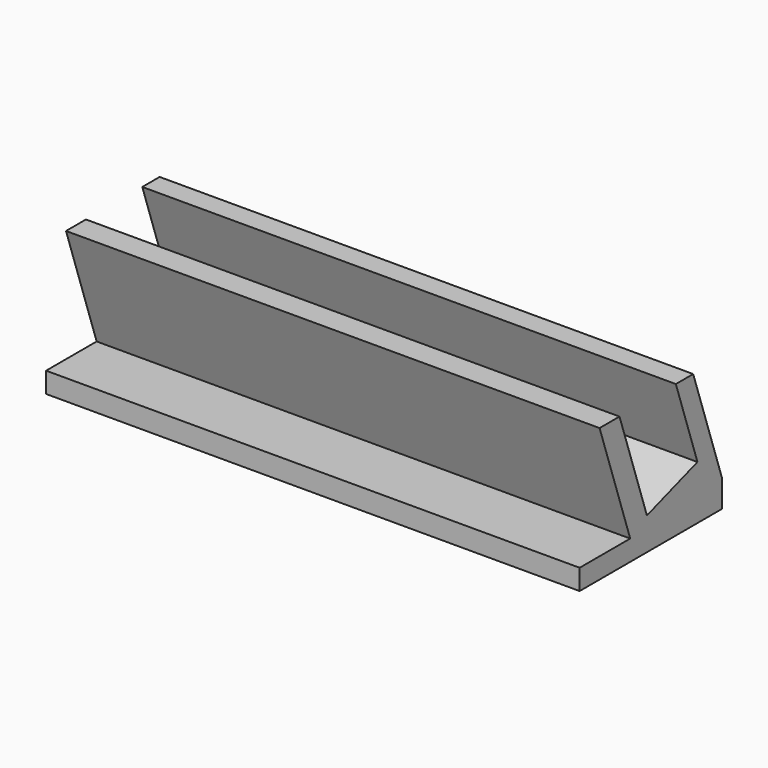
from build123d import *

# Parameters (mm, degrees)
F0_W     = 76.2
F0_H     = 25.4
F1_DEPTH = 19.05
F3_DEPTH = 76.2
F4_DEPTH = 76.2
F6_DEPTH = 76.2


with BuildPart() as f1:
    # F0 (on Top) → F1 (new body)
    with BuildSketch(Plane.XY):
        with Locations((0.7800040767, 0.3926137724)):
            Rectangle(F0_W, F0_H)
    extrude(amount=F1_DEPTH)

    # F2 (on face) → F3 (cut)
    with BuildSketch(Plane(origin=(-37.3199959233, 0, 0), x_dir=(0, -1, 0), z_dir=(-1, 0, 0))):
        Polygon((5.1924203255, 19.05), (-4.8661371025, 19.05), (-8.724951177, 7.6794241368), (0.294794015, 4.6184076928), align=None)
    extrude(amount=-F3_DEPTH, mode=Mode.SUBTRACT)

    # F2 (on face) → F4 (cut)
    with BuildSketch(Plane(origin=(-37.3199959233, 0, 0), x_dir=(0, -1, 0), z_dir=(-1, 0, 0))):
        Polygon((-13.0926137724, 3.9323569939), (-7.9621635377, 19.05), (-13.0926137724, 19.05), align=None)
    extrude(amount=-F4_DEPTH, mode=Mode.SUBTRACT)

    # F5 (on face) → F6 (cut)
    with BuildSketch(Plane(origin=(-37.3199959233, 0, 0), x_dir=(0, -1, 0), z_dir=(-1, 0, 0))):
        Polygon((12.3073862276, 19.05), (8.7499032765, 19.05), (3.2798947146, 2.9317973285), (8.4929587319, 2.9317973285), (12.3073862276, 2.9317973285), align=None)
    extrude(amount=-F6_DEPTH, mode=Mode.SUBTRACT)


solid = f1.part
